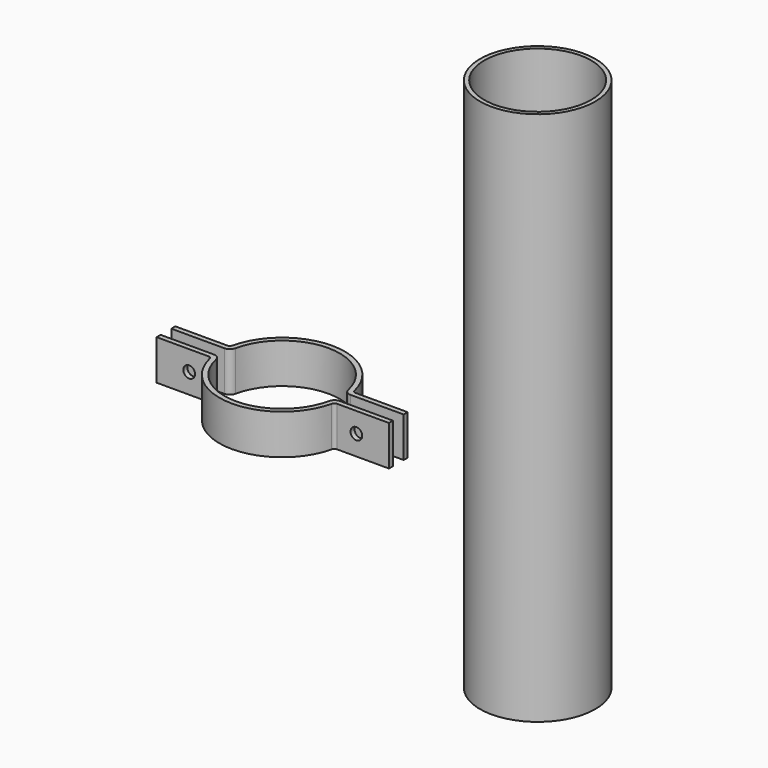
from build123d import *

# Parameters (mm, degrees)
F0_R        = 109.5375
F0_R_2      = 101.6
F1_DEPTH    = 38.1
F2_R        = 6.35
F3_R        = 12.7
F4_R        = 11.108204
F4_R_2      = 11.1125
F5_DEPTH    = 119.0635
F6_DEPTH    = 322.828566
F1_FACE_R   = 109.5375
F1_FACE_R_2 = 101.6
F7_DEPTH    = 508


with BuildPart() as f1:
    # F0 (on Top) → F1 (new body, symmetric)
    with BuildSketch(Plane.XY):
        with BuildLine():
            ThreePointArc((108.798777, -12.7), (0, -109.5375), (-108.798777, -12.7))
            Line((-108.798777, -12.7), (-220.6625, -12.7))
            Line((-220.6625, -12.7), (-220.6625, -22.225))
            Line((-220.6625, -22.225), (-116.969775, -22.225))
            ThreePointArc((-116.969775, -22.225), (0, -119.0625), (116.969775, -22.225))
            Line((116.969775, -22.225), (220.6625, -22.225))
            Line((220.6625, -22.225), (220.6625, -12.7))
            Line((220.6625, -12.7), (108.798777, -12.7))
        make_face()
        with BuildLine():
            Line((-220.6625, 22.225), (-220.6625, 12.7))
            Line((-220.6625, 12.7), (-108.798777, 12.7))
            ThreePointArc((-108.798777, 12.7), (0, 109.5375), (108.798777, 12.7))
            Line((108.798777, 12.7), (220.6625, 12.7))
            Line((220.6625, 12.7), (220.6625, 22.225))
            Line((220.6625, 22.225), (116.969775, 22.225))
            ThreePointArc((116.969775, 22.225), (0, 119.0625), (-116.969775, 22.225))
            Line((-116.969775, 22.225), (-220.6625, 22.225))
        make_face()
        with Locations((314.704984, 213.290066)):
            Circle(F0_R)
        with Locations((314.704984, 213.290066)):
            Circle(F0_R_2, mode=Mode.SUBTRACT)
    extrude(amount=F1_DEPTH, both=True)

    # F2
    f2_edges = [f1.edges().sort_by_distance(p)[0] for p in [
        (-116.969775, 22.225, 0),
        (116.969775, 22.225, 0),
        (116.969775, -22.225, 0),
        (-116.969775, -22.225, 0),
    ]]
    fillet(f2_edges, radius=F2_R)

    # F3
    f3_edges = [f1.edges().sort_by_distance(p)[0] for p in [
        (-108.798777, 12.7, 0),
        (108.798777, 12.7, 0),
        (108.798777, -12.7, 0),
        (-108.798777, -12.7, 0),
    ]]
    fillet(f3_edges, radius=F3_R)

    # F4 (on Front) → F5 (cut, through all)
    with BuildSketch(Plane.XZ):
        with Locations((-158.75, 0)):
            Circle(F4_R)
        with Locations((158.75, 0)):
            Circle(F4_R_2)
    extrude(amount=F5_DEPTH, mode=Mode.SUBTRACT)

    # F4 (on Front) → F6 (cut, through all)
    with BuildSketch(Plane.XZ):
        with Locations((-158.75, 0)):
            Circle(F4_R)
        with Locations((158.75, 0)):
            Circle(F4_R_2)
    extrude(amount=-F6_DEPTH, mode=Mode.SUBTRACT)

    # F1_face (on face) → F7 (join, symmetric)
    with BuildSketch(Plane(origin=(314.704984, 213.290066, 38.1), x_dir=(1, 0, 0), z_dir=(0, 0, 1))):
        Circle(F1_FACE_R)
        Circle(F1_FACE_R_2, mode=Mode.SUBTRACT)
    extrude(amount=F7_DEPTH, both=True)


solid = f1.part
